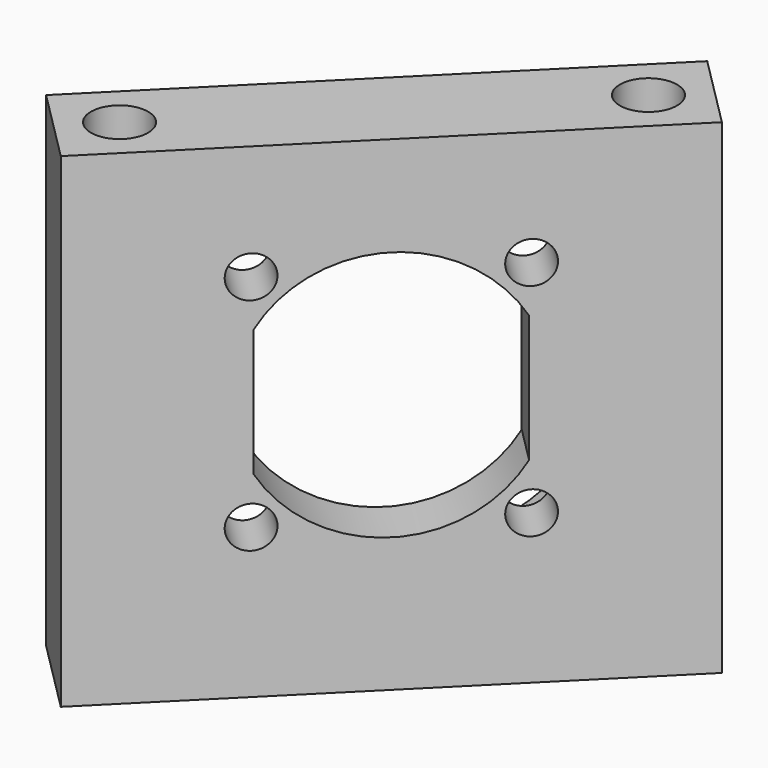
from build123d import *

# Parameters (mm, degrees)
SKETCH087_W             = 30
SKETCH087_H             = 6
PAD036_DEPTH            = 28
SKETCH088_R             = 11.25
POCKET047_DEPTH         = 3
SKETCH089_R             = 1.2
POCKET048_DEPTH         = 3
SKETCH090_R             = 1.65
POCKET049_DEPTH         = 7
SKETCH091_R             = 1.65
POCKET050_DEPTH         = 8
BODY026_PLACEMENT_ANGLE = 45


with BuildPart() as part:
    # Sketch087 → Pad036 (new body)
    with BuildSketch(Plane.XY):
        Rectangle(SKETCH087_W, SKETCH087_H)
    extrude(amount=PAD036_DEPTH)

    # Sketch088 (on Face4 of Pad036) → Pocket047 (cut)
    with BuildSketch(Plane(origin=(0, 3, 0), x_dir=(-1, 0, 0), z_dir=(0, 1, 0))):
        with Locations((0, 15)):
            Circle(SKETCH088_R)
    extrude(amount=-POCKET047_DEPTH, mode=Mode.SUBTRACT)

    # Sketch089 (on Face8 of Pocket047) → Pocket048 (cut)
    with BuildSketch(Plane(origin=(0, 0, 0), x_dir=(-1, 0, 0), z_dir=(0, 1, 0))):
        with Locations((6.363961, 8.636039)):
            Circle(SKETCH089_R)
        with Locations((6.363961, 21.363961)):
            Circle(SKETCH089_R)
        with Locations((-6.363961, 21.363961)):
            Circle(SKETCH089_R)
        with Locations((-6.363961, 8.636039)):
            Circle(SKETCH089_R)
        with BuildLine():
            Line((-6.25, 18.674235), (-6.25, 11.325765))
            ThreePointArc((-6.25, 11.325765), (0, 7.75), (6.25, 11.325765))
            Line((6.25, 18.674235), (6.25, 11.325765))
            ThreePointArc((6.25, 18.674235), (0, 22.25), (-6.25, 18.674235))
        make_face()
    extrude(amount=-POCKET048_DEPTH, mode=Mode.SUBTRACT)

    # Sketch090 (on Face5 of Pocket048) → Pocket049 (cut)
    with BuildSketch(Plane.XY.offset(28)):
        with Locations((-12, 0)):
            Circle(SKETCH090_R)
        with Locations((12, 0)):
            Circle(SKETCH090_R)
    extrude(amount=-POCKET049_DEPTH, mode=Mode.SUBTRACT)

    # Sketch091 (on Face4 of Pocket049) → Pocket050 (cut)
    with BuildSketch(Plane(origin=(0, 0, 0), x_dir=(1, 0, 0), z_dir=(0, 0, -1))):
        with Locations((-12, 0)):
            Circle(SKETCH091_R)
        with Locations((12, 0)):
            Circle(SKETCH091_R)
    extrude(amount=-POCKET050_DEPTH, mode=Mode.SUBTRACT)


with BuildPart() as part_1:
    # Body026 placement: moved
    add(part.part.moved(Location((58.5, -58.5, 2))).rotate(Axis((58.5, -58.5, 2), (0, 0, 1)), BODY026_PLACEMENT_ANGLE))


solid = part_1.part
